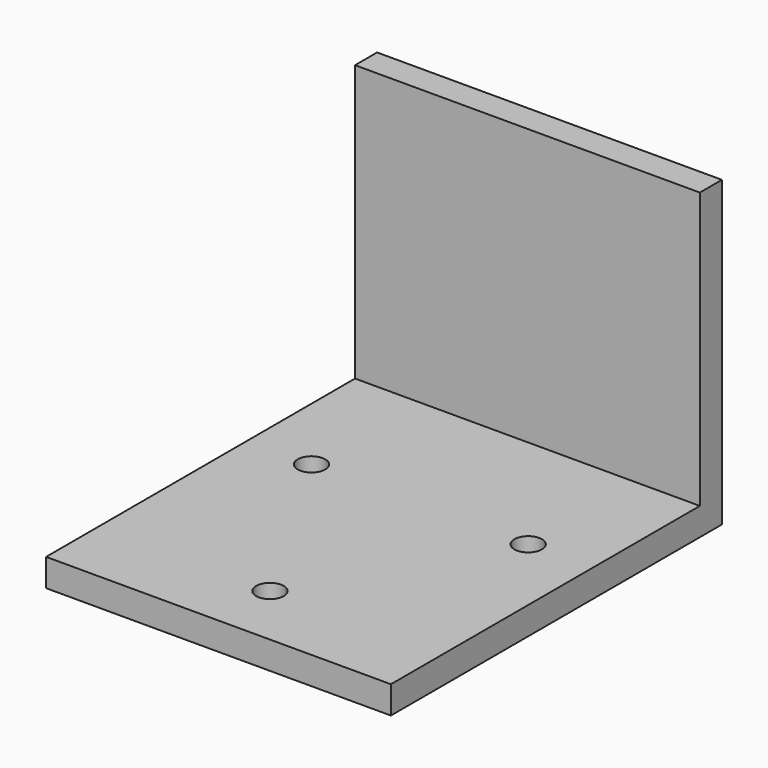
from build123d import *

# Parameters (mm, degrees)
F0_W     = 25
F0_H     = 2
F1_DEPTH = 25
F2_R     = 1
F3_DEPTH = 25
F4_DEPTH = 5
F6_DEPTH = 20


with BuildPart() as f1:
    # F0 (on Front) → F1 (new body)
    with BuildSketch(Plane.XZ):
        with Locations((-1.9524786621, -32.3955392072)):
            Rectangle(F0_W, F0_H)
    extrude(amount=F1_DEPTH)

    # F2 (on face) → F3 (cut)
    with BuildSketch(Plane.XY.offset(-31.3955392072)):
        with Locations((-1.9404253719, -20.35)):
            Circle(F2_R)
        with Locations((5.8975151656, -6.7464457538)):
            Circle(F2_R)
        with Locations((-9.8024786621, -6.760367258)):
            Circle(F2_R)
    extrude(amount=-F3_DEPTH, mode=Mode.SUBTRACT)

    # F4 (add): a face of the model
    f4_faces = [f1.faces().sort_by_distance(p)[0] for p in [
        (-1.9524786621, 0, -32.3955392072),
    ]]
    extrude(f4_faces, amount=F4_DEPTH)

    # F5 (on face) → F6 (join)
    with BuildSketch(Plane.XY.offset(-31.3955392072)):
        Polygon((-14.4524786621, 5), (-14.4524786621, 3), (10.433112914, 3), (10.5475213379, 3), (10.5475213379, 5), align=None)
    extrude(amount=F6_DEPTH)


solid = f1.part
